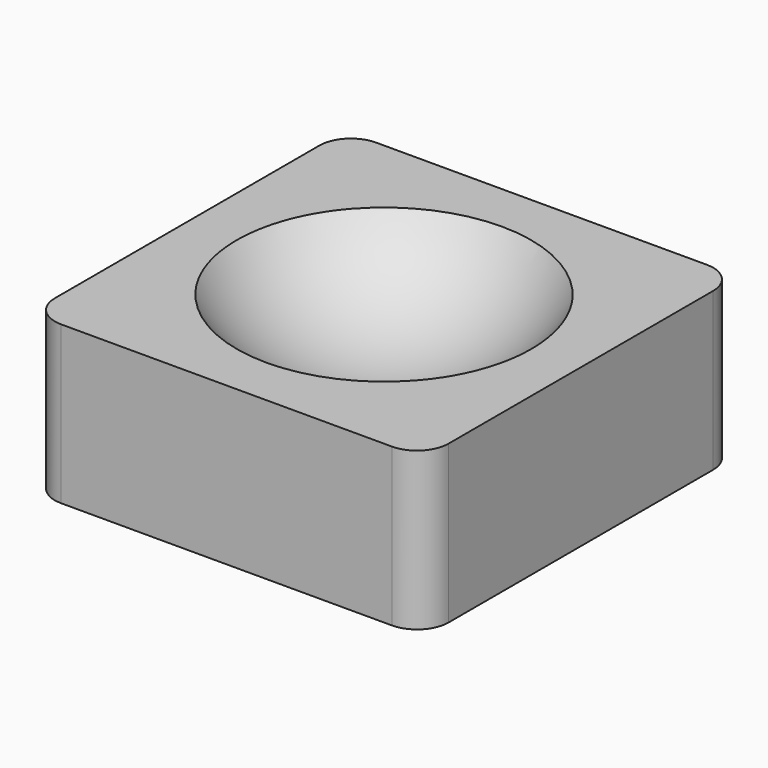
from build123d import *

# Parameters (mm, degrees)
F0_W     = 63.5
F0_H     = 63.5
F1_DEPTH = 44.45
F5_W     = 63.5
F5_H     = 19.05
F6_DEPTH = 63.501
F7_R     = 5.08


with BuildPart() as f1:
    # F0 (on Top) → F1 (new body)
    with BuildSketch(Plane.XY):
        with Locations((31.75, -31.75)):
            Rectangle(F0_W, F0_H)
    extrude(amount=F1_DEPTH)

    # F3 (on offset) → F4 (revolve, cut)
    with BuildSketch(Plane.XY.offset(60.325)):
        with BuildLine():
            Line((60.325, -31.75), (3.175, -31.75))
            ThreePointArc((3.175, -31.75), (31.75, -60.325), (60.325, -31.75))
        make_face()
    revolve(axis=Axis((31.75, -31.75, 60.325), (1, 0, 0)), mode=Mode.SUBTRACT)

    # F5 (on face) → F6 (cut, through all)
    with BuildSketch(Plane.XZ.offset(63.5)):
        with Locations((31.75, 9.525)):
            Rectangle(F5_W, F5_H)
    extrude(amount=-F6_DEPTH, mode=Mode.SUBTRACT)

    # F7
    f7_edges = [f1.edges().sort_by_distance(p)[0] for p in [
        (63.5, -63.5, 31.75),
        (63.5, 0, 31.75),
        (0, 0, 31.75),
        (0, -63.5, 31.75),
    ]]
    fillet(f7_edges, radius=F7_R)


solid = f1.part
